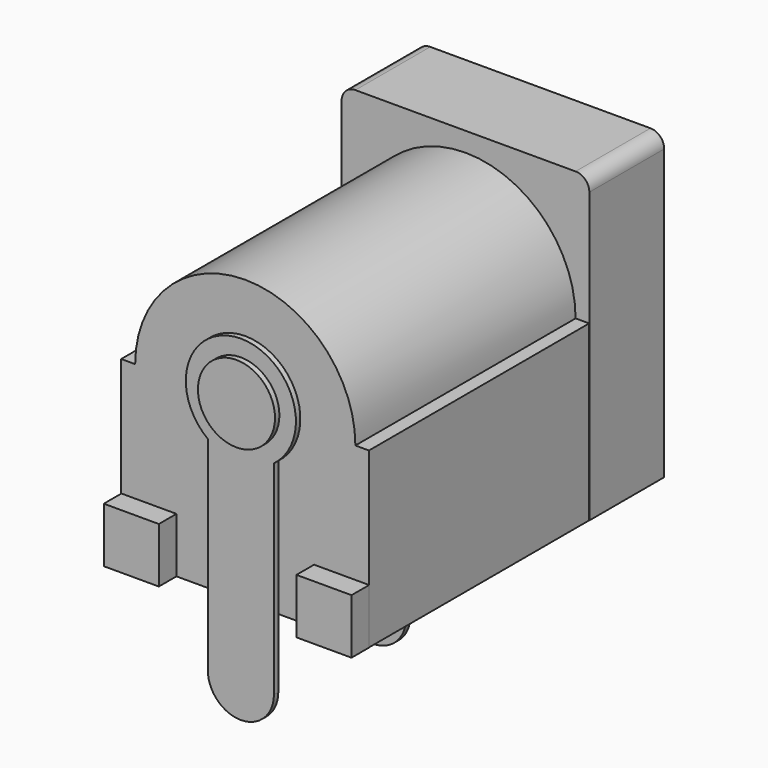
from build123d import *

# Parameters (mm, degrees)
SKETCH_W     = 9
SKETCH_H     = 11
PAD_DEPTH    = 3.4
PAD001_DEPTH = 10
FILLET_R     = 0.5
SKETCH002_W  = 2
SKETCH002_H  = 2
PAD002_DEPTH = 0.8
PAD003_DEPTH = 0.2
SKETCH004_R  = 1.4
PAD004_DEPTH = 0.2
PAD005_DEPTH = 0.2


with BuildPart() as part:
    # Sketch → Pad (new body)
    with BuildSketch(Plane.XZ):
        with Locations((0, 5.5)):
            Rectangle(SKETCH_W, SKETCH_H)
    extrude(amount=PAD_DEPTH)

    # Sketch001 (on Face6 of Pad) → Pad001 (join)
    with BuildSketch(Plane.XZ.offset(3.4)):
        with BuildLine():
            ThreePointArc((4, 6.3), (0, 10.3), (-4, 6.3))
            Line((-4, 6.3), (-4.507423, 6.3))
            Line((-4.507423, 6.3), (-4.507423, 0))
            Line((-4.507423, 0), (4.492577, 0))
            Line((4.492577, 0), (4.492577, 6.3))
            Line((4.492577, 6.3), (4, 6.3))
        make_face()
    extrude(amount=PAD001_DEPTH)

    # Fillet
    fillet_edges = [part.edges().sort_by_distance(p)[0] for p in [
        (4.5, -1.7, 11),
        (-4.5, -1.7, 11),
    ]]
    fillet(fillet_edges, radius=FILLET_R)

    # Sketch002 (on Face16 of Fillet) → Pad002 (join)
    with BuildSketch(Plane.XZ.offset(13.4)):
        with Locations((3.5, 1)):
            Rectangle(SKETCH002_W, SKETCH002_H)
        with Locations((-3.5, 1)):
            Rectangle(SKETCH002_W, SKETCH002_H)
    extrude(amount=PAD002_DEPTH)

    # Sketch003 (on Face16 of Pad002) → Pad003 (join)
    with BuildSketch(Plane.XZ.offset(13.4)):
        with BuildLine():
            Line((-1.2, -2.5), (-1.2, 4.9))
            ThreePointArc((1.2, 4.9), (0, 8.5), (-1.2, 4.9))
            Line((1.2, -2.5), (1.2, 4.9))
            ThreePointArc((-1.2, -2.5), (0, -3.699991), (1.2, -2.5))
        make_face()
    extrude(amount=PAD003_DEPTH)

    # Sketch004 (on Face33 of Pad003) → Pad004 (join)
    with BuildSketch(Plane.XZ.offset(13.6)):
        with Locations((0, 6.5)):
            Circle(SKETCH004_R)
    extrude(amount=PAD004_DEPTH)

    # Sketch005 (on DatumPlane) → Pad005 (join)
    with BuildSketch(Plane(origin=(0, -7.4, 0), x_dir=(-1, 0, 0), z_dir=(0, 1, 0))):
        with BuildLine():
            Line((-1.2, 0), (1.2, 0))
            Line((1.2, 0), (1.2, -2.5))
            ThreePointArc((-1.2, -2.5), (0, -3.7), (1.2, -2.5))
            Line((-1.2, 0), (-1.2, -2.5))
        make_face()
    extrude(amount=-PAD005_DEPTH)


solid = part.part
